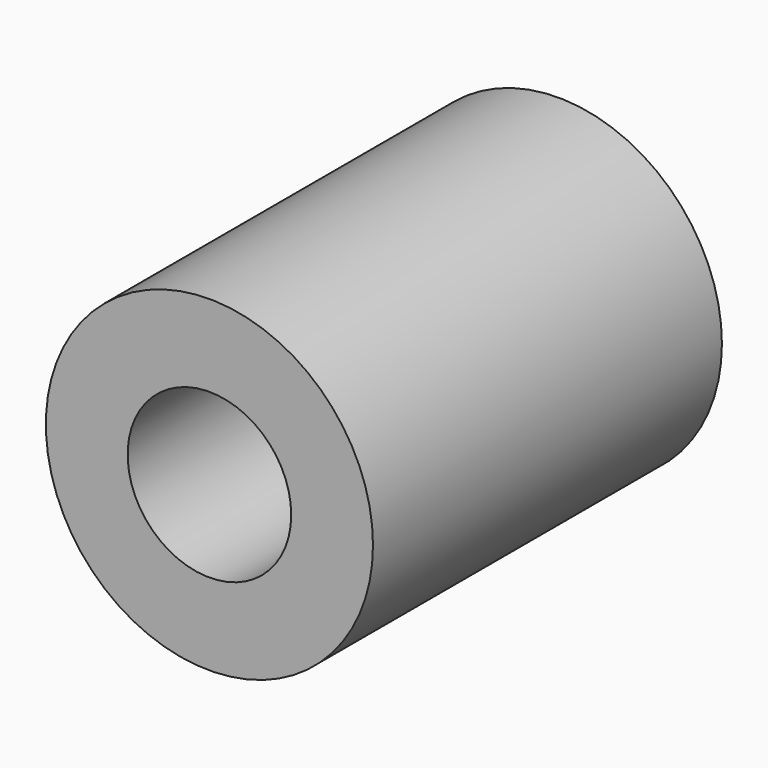
from build123d import *

# Parameters (mm, degrees)
F0_R     = 9.525
F1_DEPTH = 25.4
F3_R     = 4.7625
F4_DEPTH = 25.401
F2_W     = 9.525
F2_H     = 9.525
F5_DEPTH = 11.0998
F7_DEPTH = 14.605


with BuildPart() as f1:
    # F0 (on Front) → F1 (new body)
    with BuildSketch(Plane.XZ):
        Circle(F0_R)
    extrude(amount=F1_DEPTH)

    # F3 (on Front) → F4 (cut, through all)
    with BuildSketch(Plane.XZ):
        Circle(F3_R)
    extrude(amount=F4_DEPTH, mode=Mode.SUBTRACT)

    # F2 (on Front) → F5 (cut)
    with BuildSketch(Plane.XZ):
        Rectangle(F2_W, F2_H)
    extrude(amount=F5_DEPTH, mode=Mode.SUBTRACT)

    # F6 (on face) → F7 (cut)
    with BuildSketch(Plane(origin=(0, 0, 0), x_dir=(-1, 0, 0), z_dir=(0, 1, 0))):
        Polygon((4.247856, -6.267943), (7.54897, -0.586891), (5.165556, 5.536102), (-1.107627, 7.490297), (-6.546745, 3.804146), (-7.05603, -2.746605), (-2.251981, -7.229106), align=None)
    extrude(amount=-F7_DEPTH, mode=Mode.SUBTRACT)


solid = f1.part
